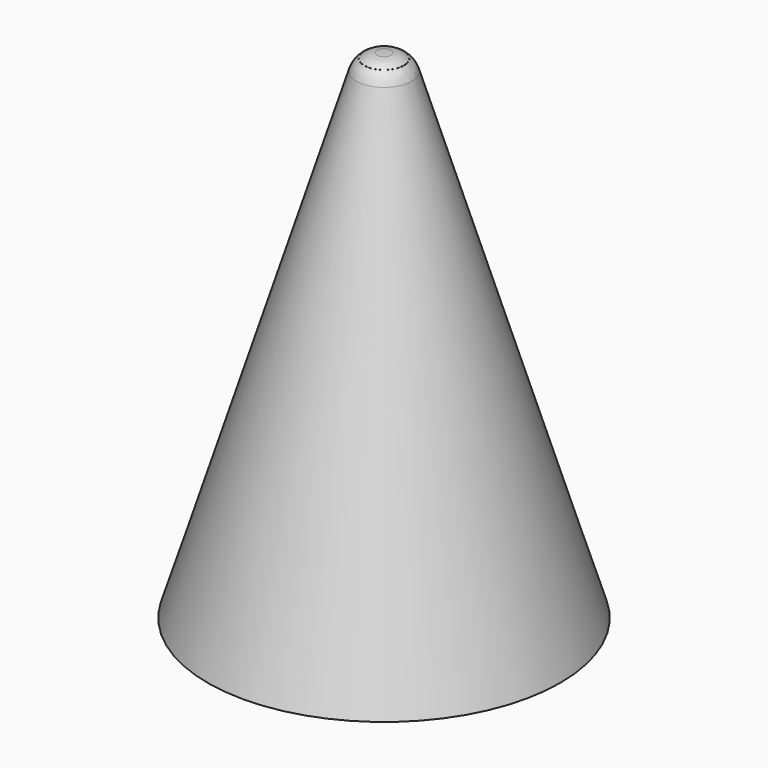
from build123d import *

# Parameters (mm, degrees)
F2_T = -1.27
F3_R = 7.0358


with BuildPart() as f1:
    # F0 (on Front) → F1 (revolve)
    with BuildSketch(Plane.XZ):
        Polygon((0, 102.476016), (0, -49.923984), (53.975, -49.923984), (7.011191, 102.107614), align=None)
    revolve(axis=Axis((0, 0, 26.276016), (0, 0, -1)))

    # F2
    f2_openings = [f1.faces().sort_by_distance(p)[0] for p in [
        (0, 0, -49.923984),
    ]]
    offset(amount=F2_T, openings=f2_openings)

    # F3
    f3_edges = [f1.edges().sort_by_distance(p)[0] for p in [
        (-7.011191, 0, 102.107614),
    ]]
    fillet(f3_edges, radius=F3_R)


solid = f1.part
